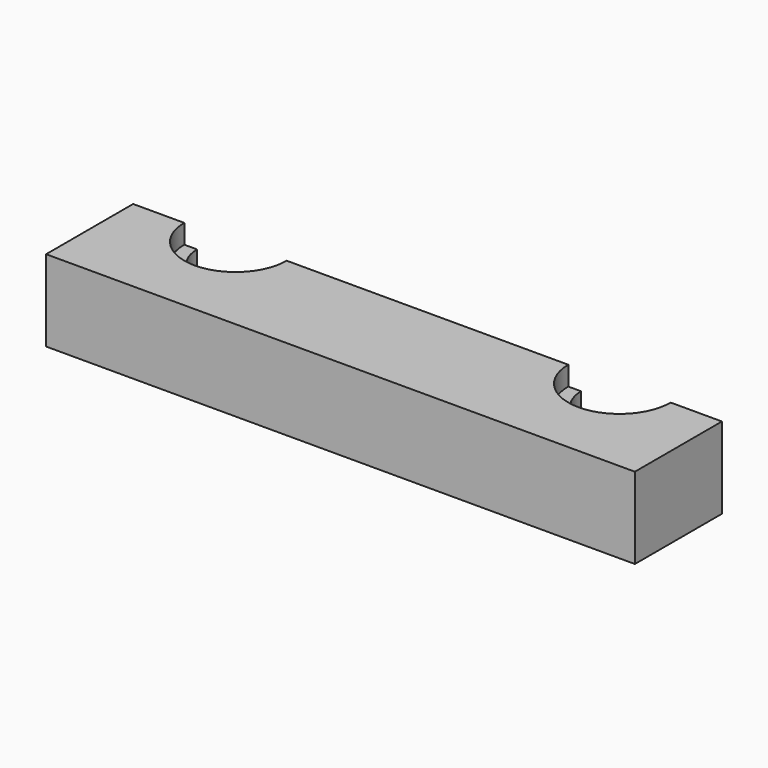
from build123d import *

# Parameters (mm, degrees)
PAD_DEPTH       = 12.7
POCKET_DEPTH    = 3
POCKET001_DEPTH = 3.7


with BuildPart() as part:
    # Sketch → Pad (new body)
    with BuildSketch(Plane.XY):
        with BuildLine():
            Line((-46, 7.5), (-46, -9.5))
            Line((-46, -9.5), (46, -9.5))
            Line((46, -9.5), (46, 7.5))
            Line((46, 7.5), (36, 7.5))
            ThreePointArc((24, 7.5), (30, 1.5), (36, 7.5))
            Line((24, 7.5), (-24, 7.5))
            ThreePointArc((-36, 7.5), (-30, 1.5), (-24, 7.5))
            Line((-46, 7.5), (-36, 7.5))
        make_face()
    extrude(amount=PAD_DEPTH)

    # Sketch001 → Pocket (cut)
    with BuildSketch(Plane.XY.offset(12.7)):
        with BuildLine():
            ThreePointArc((-38, 7.5), (-30, -0.5), (-22, 7.5))
            Line((-22, 23.5), (-22, 7.5))
            Line((-38, 23.5), (-22, 23.5))
            Line((-38, 7.5), (-38, 23.5))
        make_face()
        with BuildLine():
            ThreePointArc((22, 7.5), (30, -0.5), (38, 7.5))
            Line((38, 23.5), (38, 7.5))
            Line((22, 23.5), (38, 23.5))
            Line((22, 7.5), (22, 23.5))
        make_face()
    extrude(amount=-POCKET_DEPTH, mode=Mode.SUBTRACT)

    # Sketch002 → Pocket001 (cut)
    with BuildSketch(Plane(origin=(0, 0, 0), x_dir=(1, 0, 0), z_dir=(0, 0, -1))):
        with BuildLine():
            ThreePointArc((-22, -7.5), (-30, 0.5), (-38, -7.5))
            Line((-38, -7.5), (-38, -23.5))
            Line((-38, -23.5), (-22, -23.5))
            Line((-22, -23.5), (-22, -7.5))
        make_face()
        with BuildLine():
            ThreePointArc((38, -7.5), (30, 0.5), (22, -7.5))
            Line((22, -7.5), (22, -23.5))
            Line((22, -23.5), (38, -23.5))
            Line((38, -23.5), (38, -7.5))
        make_face()
    extrude(amount=-POCKET001_DEPTH, mode=Mode.SUBTRACT)


solid = part.part
